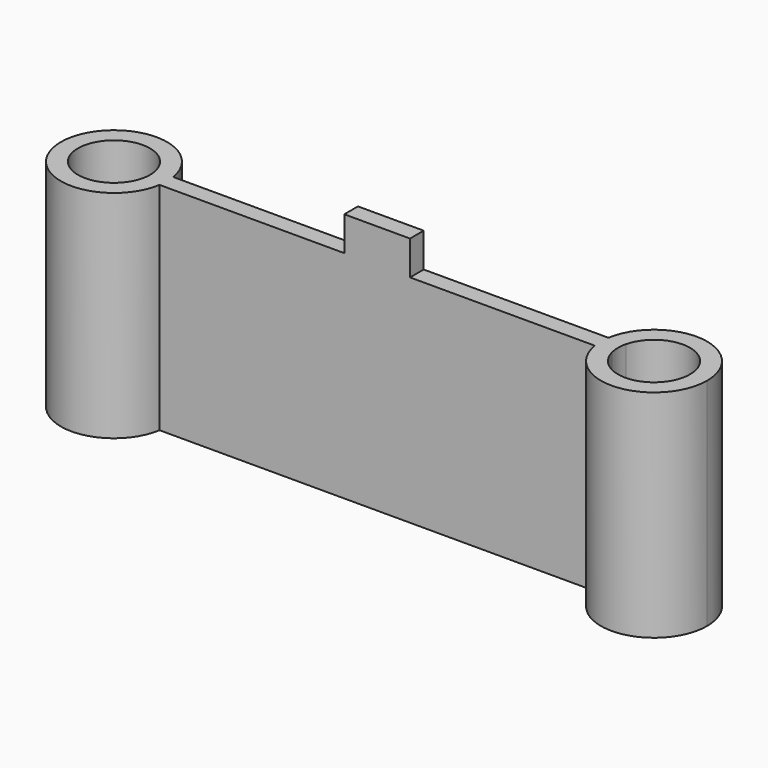
from build123d import *

# Parameters (mm, degrees)
F1_DEPTH = 24
F2_W     = 7.30315
F2_H     = 1.9
F3_DEPTH = 3.8


with BuildPart() as f1:
    # F0 (on Top) → F1 (new body)
    with BuildSketch(Plane.XY):
        with BuildLine():
            ThreePointArc((-26.1144498459, 0.95), (-26.0287155342, 0.4784346265), (-26, 0))
            ThreePointArc((-26, 0), (-26.0287155342, -0.4784346265), (-26.1144498459, -0.95))
            Line((-26.1144498459, -0.95), (-24.1769853169, -0.95))
            ThreePointArc((-24.1769853169, -0.95), (-24.1192778237, -0.4765571159), (-24.1, 0))
            ThreePointArc((-24.1, 0), (-24.1192778237, 0.4765571159), (-24.1769853169, 0.95))
            Line((-24.1769853169, 0.95), (-26.1144498459, 0.95))
        make_face()
        with BuildLine():
            Line((24.1769853169, 0.95), (-24.1769853169, 0.95))
            ThreePointArc((-24.1769853169, 0.95), (-24.1192778237, 0.4765571159), (-24.1, 0))
            ThreePointArc((-24.1, 0), (-24.1192778237, -0.4765571159), (-24.1769853169, -0.95))
            Line((-24.1769853169, -0.95), (24.1769853169, -0.95))
            ThreePointArc((24.1769853169, -0.95), (24.1, 0), (24.1769853169, 0.95))
        make_face()
        with BuildLine():
            ThreePointArc((-26.1144498459, -0.95), (-34, 0), (-26.1144498459, 0.95))
            Line((-26.1144498459, 0.95), (-24.1769853169, 0.95))
            ThreePointArc((-24.1769853169, 0.95), (-35.9, 0), (-24.1769853169, -0.95))
            Line((-24.1769853169, -0.95), (-26.1144498459, -0.95))
        make_face()
        with BuildLine():
            Line((26.1144498459, 0.95), (24.1769853169, 0.95))
            ThreePointArc((24.1769853169, 0.95), (24.1, 0), (24.1769853169, -0.95))
            Line((24.1769853169, -0.95), (26.1144498459, -0.95))
            ThreePointArc((26.1144498459, -0.95), (26, 0), (26.1144498459, 0.95))
        make_face()
        with BuildLine():
            ThreePointArc((35.9, 0), (30.4765571159, 5.8807221763), (24.1769853169, 0.95))
            Line((24.1769853169, 0.95), (26.1144498459, 0.95))
            ThreePointArc((26.1144498459, 0.95), (30.4784346265, 3.9712844658), (34, 0))
            ThreePointArc((34, 0), (30.4784346265, -3.9712844658), (26.1144498459, -0.95))
            Line((26.1144498459, -0.95), (24.1769853169, -0.95))
            ThreePointArc((24.1769853169, -0.95), (30.4765571159, -5.8807221763), (35.9, 0))
        make_face()
    extrude(amount=F1_DEPTH)

    # F2 (on face) → F3 (join)
    with BuildSketch(Plane.XY.offset(24)):
        Rectangle(F2_W, F2_H)
    extrude(amount=F3_DEPTH)


solid = f1.part
